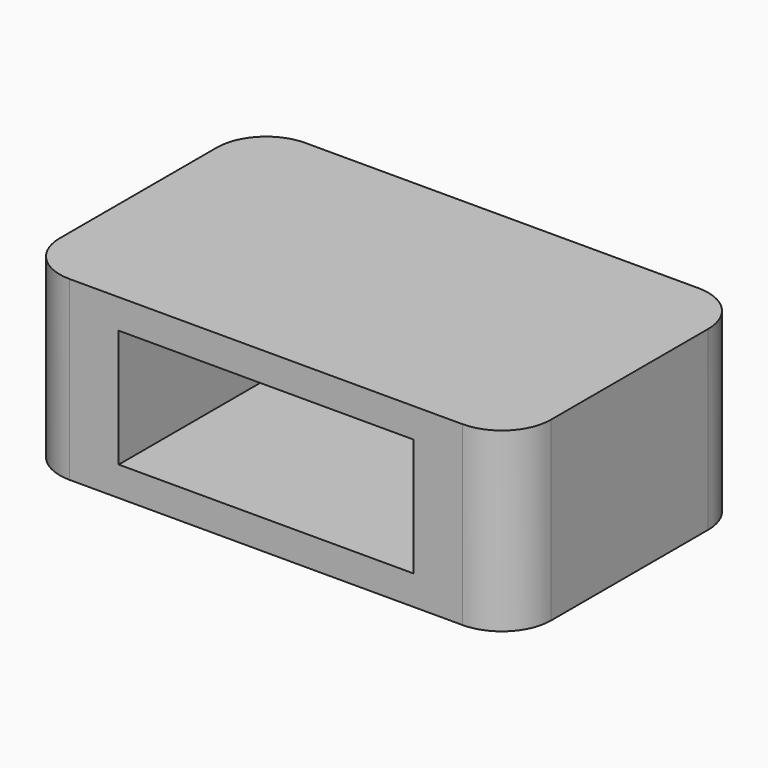
from build123d import *

# Parameters (mm, degrees)
F1_DEPTH = 3
F2_W     = 4
F2_H     = 20
F2_W_2   = 5.5355339059
F3_DEPTH = 7
F4_DEPTH = 5
F5_W     = 4
F5_H     = 20
F6_DEPTH = 3


with BuildPart() as f1:
    # F0 (on Top) → F1 (new body)
    with BuildSketch(Plane.XY):
        with BuildLine():
            Line((-45, 0), (-5, 0))
            ThreePointArc((-5, 0), (-1.4644660941, 1.4644660941), (0, 5))
            Line((0, 5), (0, 25))
            ThreePointArc((0, 25), (-1.4644660941, 28.5355339059), (-5, 30))
            Line((-5, 30), (-45, 30))
            ThreePointArc((-45, 30), (-48.5355339059, 28.5355339059), (-50, 25))
            Line((-50, 25), (-50, 5))
            ThreePointArc((-50, 5), (-48.5355339059, 1.4644660941), (-45, 0))
        make_face()
    extrude(amount=F1_DEPTH)

    # F2 (on face) → F3 (join)
    with BuildSketch(Plane.XY.offset(3)):
        with BuildLine():
            Line((-45, 0), (-40, 0))
            Line((-40, 0), (-40, 30))
            Line((-40, 30), (-45, 30))
            ThreePointArc((-45, 30), (-48.5355339059, 28.5355339059), (-50, 25))
            Line((-50, 25), (-50, 5))
            ThreePointArc((-50, 5), (-48.5355339059, 1.4644660941), (-45, 0))
        make_face()
        with Locations((-45, 15)):
            Rectangle(F2_W, F2_H, mode=Mode.SUBTRACT)
        with BuildLine():
            Line((-10, 0), (-5, 0))
            ThreePointArc((-5, 0), (-1.4644660941, 1.4644660941), (0, 5))
            Line((0, 5), (0, 25))
            ThreePointArc((0, 25), (-1.4644660941, 28.5355339059), (-5, 30))
            Line((-5, 30), (-10, 30))
            Line((-10, 30), (-10, 0))
        make_face()
        with Locations((-4.232233047, 15)):
            Rectangle(F2_W_2, F2_H, mode=Mode.SUBTRACT)
    extrude(amount=F3_DEPTH)

    # F4 (add): faces of the model
    f4_faces = [f1.faces().sort_by_distance(p)[0] for p in [
        (-42.5, 0.316227766, 10),
        (-7.5, 0.316227766, 10),
    ]]
    extrude(f4_faces, amount=F4_DEPTH)

    # F5 (on face) → F6 (join)
    with BuildSketch(Plane.XY.offset(15)):
        with BuildLine():
            Line((-45, 0), (-40, 0))
            Line((-40, 0), (-40, 30))
            Line((-40, 30), (-45, 30))
            ThreePointArc((-45, 30), (-48.5355339059, 28.5355339059), (-50, 25))
            Line((-50, 25), (-50, 5))
            ThreePointArc((-50, 5), (-48.5355339059, 1.4644660941), (-45, 0))
        make_face()
        with Locations((-45, 15)):
            Rectangle(F5_W, F5_H, mode=Mode.SUBTRACT)
        with BuildLine():
            Line((-40, 0), (-5, 0))
            ThreePointArc((-5, 0), (-1.4644660941, 1.4644660941), (0, 5))
            Line((0, 5), (0, 25))
            ThreePointArc((0, 25), (-1.4644660941, 28.5355339059), (-5, 30))
            Line((-5, 30), (-40, 30))
            Line((-40, 30), (-40, 0))
        make_face()
        with Locations((-45, 15)):
            Rectangle(F5_W, F5_H)
    extrude(amount=F6_DEPTH)


solid = f1.part
